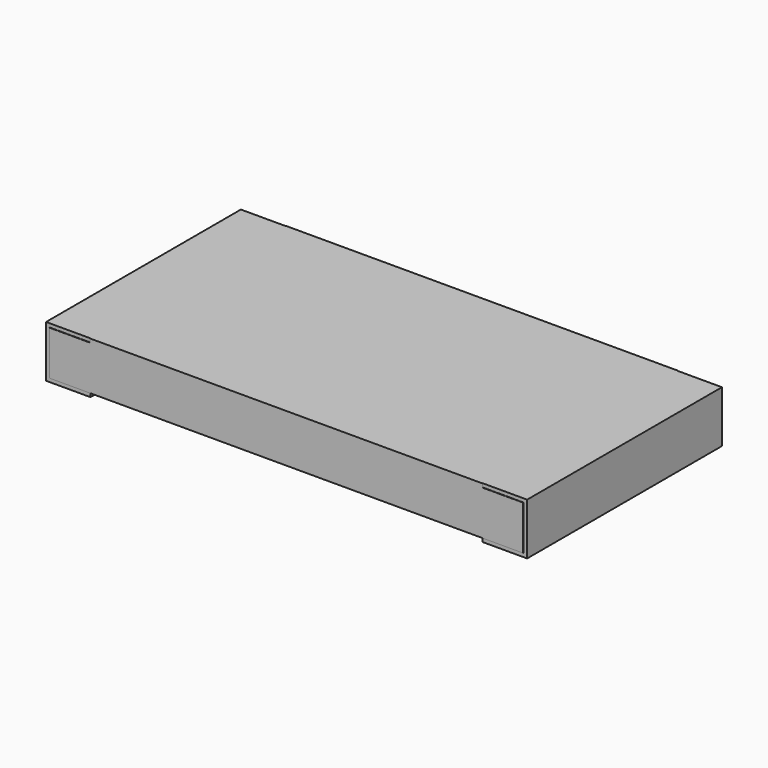
from build123d import *

# Parameters (mm, degrees)
PLATING_LEFT_W      = 0.6
PLATING_LEFT_H      = 3.29
PLATING_LEFT_DEPTH  = 0.7
PLATING_RIGHT_W     = 0.6
PLATING_RIGHT_H     = 3.29
PLATING_RIGHT_DEPTH = 0.7
MARKING_W           = 5.3
MARKING_H           = 3.3
MARKING_DEPTH       = 0.05
CHIP_W              = 6.4
CHIP_H              = 3.3
CHIP_DEPTH          = 0.6


with BuildPart() as plating_left:
    # plating_left → plating_left (new body)
    with BuildSketch(Plane(origin=(-3.25, -1.645, 0), x_dir=(1, 0, 0), z_dir=(0, 0, 1))):
        with Locations((0.3, 1.645)):
            Rectangle(PLATING_LEFT_W, PLATING_LEFT_H)
    extrude(amount=PLATING_LEFT_DEPTH)


with BuildPart() as plating_right:
    # plating_right → plating_right (new body)
    with BuildSketch(Plane(origin=(2.65, -1.645, 0), x_dir=(1, 0, 0), z_dir=(0, 0, 1))):
        with Locations((0.3, 1.645)):
            Rectangle(PLATING_RIGHT_W, PLATING_RIGHT_H)
    extrude(amount=PLATING_RIGHT_DEPTH)


with BuildPart() as marking:
    # marking → marking (new body)
    with BuildSketch(Plane(origin=(-2.65, -1.65, 0.65), x_dir=(1, 0, 0), z_dir=(0, 0, 1))):
        with Locations((2.65, 1.65)):
            Rectangle(MARKING_W, MARKING_H)
    extrude(amount=MARKING_DEPTH)


with BuildPart() as resistor:
    # chip → chip (new body)
    with BuildSketch(Plane(origin=(-3.2, -1.65, 0.05), x_dir=(1, 0, 0), z_dir=(0, 0, 1))):
        with Locations((3.2, 1.65)):
            Rectangle(CHIP_W, CHIP_H)
    extrude(amount=CHIP_DEPTH)

    # resistor: union plating_left, plating_right, marking
    add(plating_left.part)
    add(plating_right.part)
    add(marking.part)


solid = resistor.part
